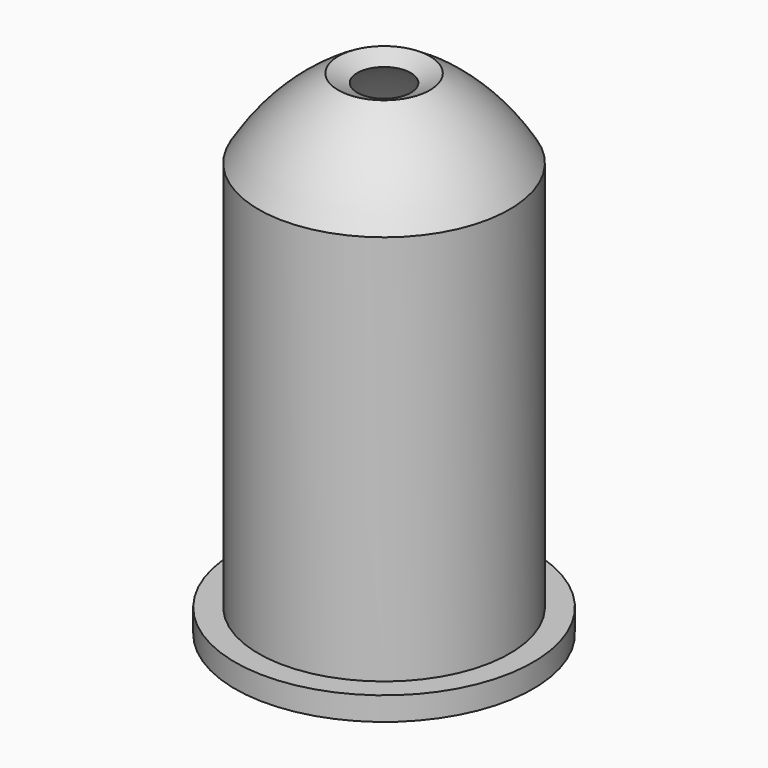
from build123d import *


with BuildPart() as f1:
    # F0 (on Front) → F1 (revolve)
    with BuildSketch(Plane.XZ):
        with BuildLine():
            Line((-22.25, -0.006905), (-15.75, -0.006905))
            Line((-15.75, -0.006905), (-15.75, 61.995825))
            ThreePointArc((-15.75, 61.995825), (-10.551239, 67.961894), (-4, 72.400627))
            Line((-4, 72.400627), (-6.850284, 73.663259))
            ThreePointArc((-6.850284, 73.663259), (-13.558304, 68.52483), (-18.75, 61.857951))
            Line((-18.75, 61.857951), (-18.75, 3.493095))
            Line((-18.75, 3.493095), (-22.25, 3.493095))
            Line((-22.25, 3.493095), (-22.25, -0.006905))
        make_face()
    revolve(axis=Axis((0, 0, 43.238405), (0, 0, 1)))


solid = f1.part
